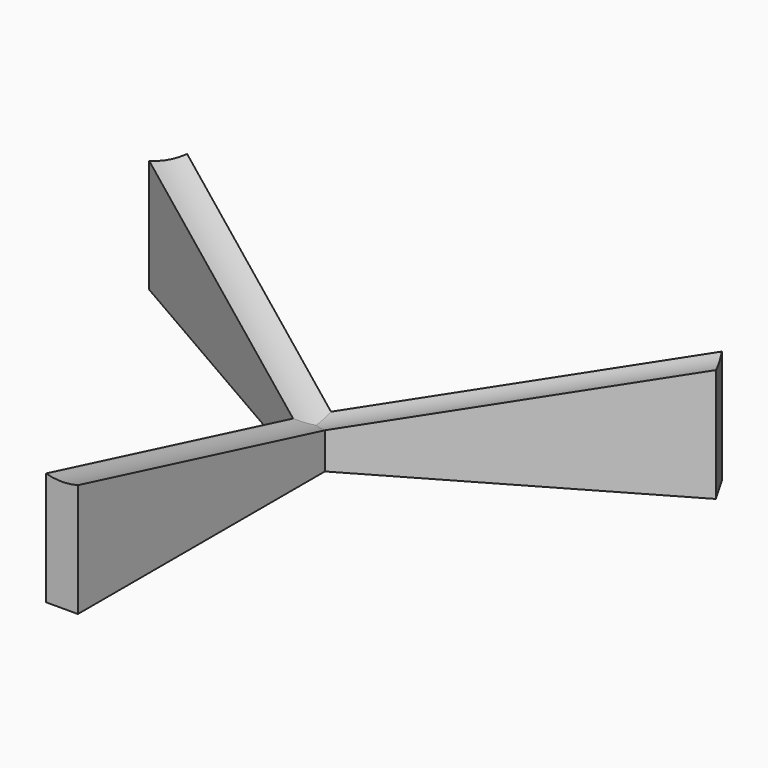
from build123d import *

# Parameters (mm, degrees)
F4_COUNT = 3


with BuildPart() as f3:
    # F0 (on Front) → F3 section 0
    with BuildSketch(Plane.XZ):
        with BuildLine():
            ThreePointArc((2, 4.271584), (0, 4), (-2, 4.271584))
            Line((-2, 4.271584), (-2, 0))
            Line((-2, 0), (2, 0))
            Line((2, 0), (2, 4.271584))
        make_face()
    # F2 (on offset) → F3 section 1
    with BuildSketch(Plane.XZ.offset(40)):
        with BuildLine():
            ThreePointArc((2, 14.271584), (0, 14), (-2, 14.271584))
            Line((-2, 14.271584), (-2, 0))
            Line((-2, 0), (2, 0))
            Line((2, 0), (2, 14.271584))
        make_face()
    loft()


with BuildPart() as f4_1:
    # F4: instance of F3
    add(f3.part.rotate(Axis((0, 0, 2), (0, 0, 1)), 1 * 360 / F4_COUNT))


with BuildPart() as f4_2:
    # F4: instance of F3
    add(f3.part.rotate(Axis((0, 0, 2), (0, 0, 1)), 2 * 360 / F4_COUNT))


solid = Compound([f3.part, f4_1.part, f4_2.part])
